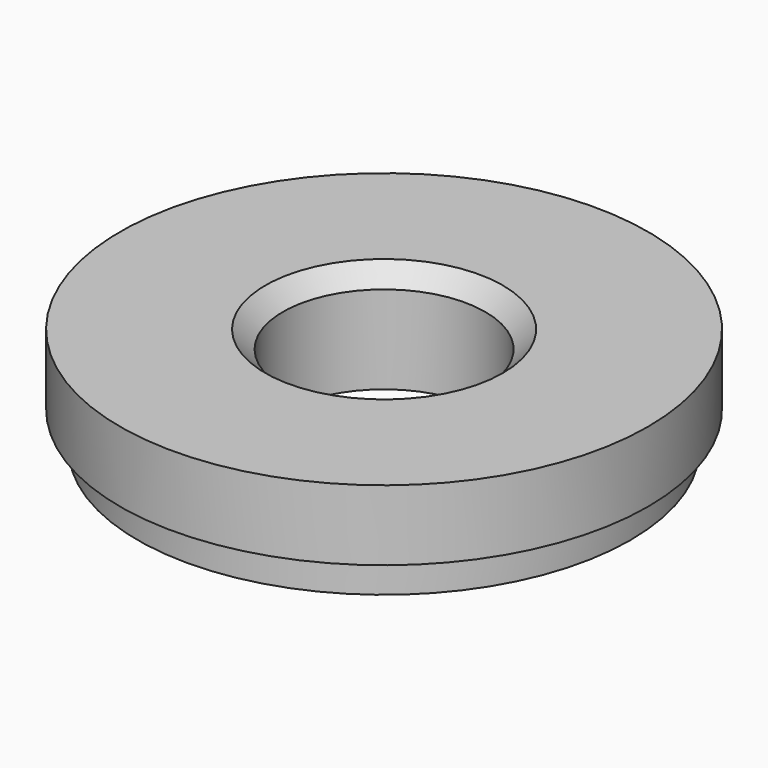
from build123d import *

# Parameters (mm, degrees)
F0_R     = 15
F0_R_2   = 5.75
F1_DEPTH = 6
F2_R     = 15
F2_R_2   = 14
F3_DEPTH = 2
F4_SIZE  = 1


with BuildPart() as f1:
    # F0 (on Top) → F1 (new body)
    with BuildSketch(Plane.XY):
        Circle(F0_R)
        Circle(F0_R_2, mode=Mode.SUBTRACT)
    extrude(amount=F1_DEPTH)

    # F2 (on face) → F3 (cut)
    with BuildSketch(Plane(origin=(0, 0, 0), x_dir=(1, 0, 0), z_dir=(0, 0, -1))):
        Circle(F2_R)
        Circle(F2_R_2, mode=Mode.SUBTRACT)
    extrude(amount=-F3_DEPTH, mode=Mode.SUBTRACT)

    # F4
    f4_edges = [f1.edges().sort_by_distance(p)[0] for p in [
        (-5.75, 0, 6),
    ]]
    chamfer(f4_edges, length=F4_SIZE)


solid = f1.part
